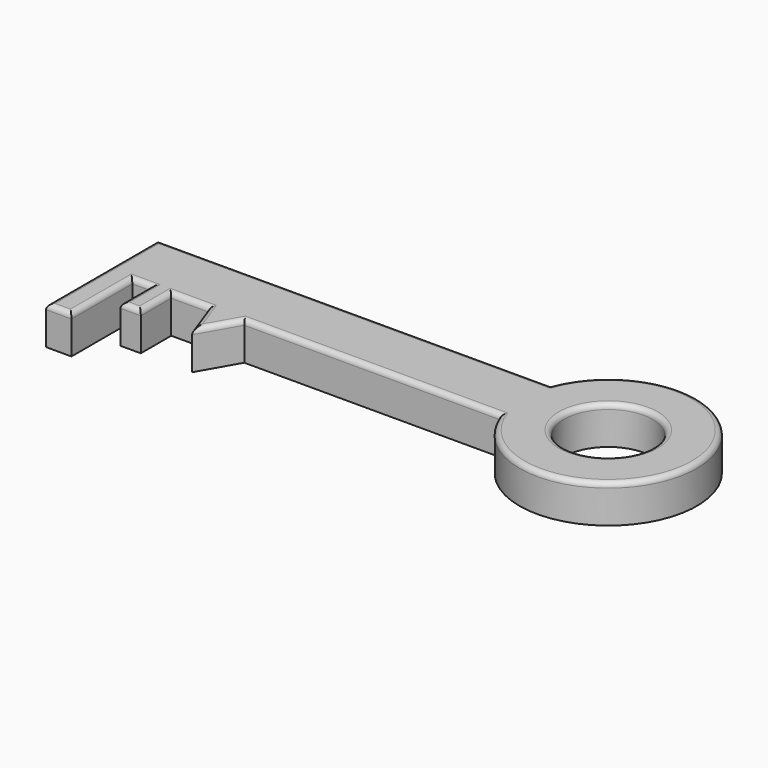
from build123d import *

# Parameters (mm, degrees)
F0_R     = 17.5
F0_W     = 10
F0_H     = 30
F0_W_2   = 8
F0_H_2   = 15
F1_DEPTH = 15
F2_R     = 2


with BuildPart() as f1:
    # F0 (on Top) → F1 (new body)
    with BuildSketch(Plane.XY):
        Polygon((43.5672023892, 1.6284456083), (-111.4327976108, 1.6284456083), (-111.4327976108, -23.3715543917), (-101.4327976108, -23.3715543917), (-94.0827950835, -23.3715543917), (-86.0827950835, -23.3715543917), (-71.2810877378, -23.3715543917), (-57.2810877378, -23.3715543917), (43.5672023892, -23.3715543917), align=None)
        with BuildLine():
            ThreePointArc((43.5672023892, -23.3715543917), (111.2589444658, -10.8715543917), (43.5672023892, 1.6284456083))
            Line((43.5672023892, 1.6284456083), (43.5672023892, -23.3715543917))
        make_face()
        with Locations((76.2589444658, -10.8715543917)):
            Circle(F0_R, mode=Mode.SUBTRACT)
        with Locations((-106.4327976108, -38.3715543917)):
            Rectangle(F0_W, F0_H)
        Polygon((-65.8438665987, -38.3715543917), (-57.2810877378, -23.3715543917), (-71.2810877378, -23.3715543917), align=None)
        with Locations((-90.0827950835, -30.8715543917)):
            Rectangle(F0_W_2, F0_H_2)
    extrude(amount=F1_DEPTH)

    # F2
    f2_edges = [f1.edges().sort_by_distance(p)[0] for p in [
        (-33.932798, 1.628446, 15),
        (-111.432798, -25.871554, 15),
        (-106.432798, -53.371554, 15),
        (-101.432798, -38.371554, 15),
        (-97.757796, -23.371554, 15),
        (-94.082795, -30.871554, 15),
        (-90.082795, -38.371554, 15),
        (-86.082795, -30.871554, 15),
        (-78.681941, -23.371554, 15),
        (-68.562477, -30.871554, 15),
        (-61.562477, -30.871554, 15),
        (-6.856943, -23.371554, 15),
        (111.258944, -10.871554, 15),
        (58.758944, -10.871554, 15),
    ]]
    fillet(f2_edges, radius=F2_R)


solid = f1.part
